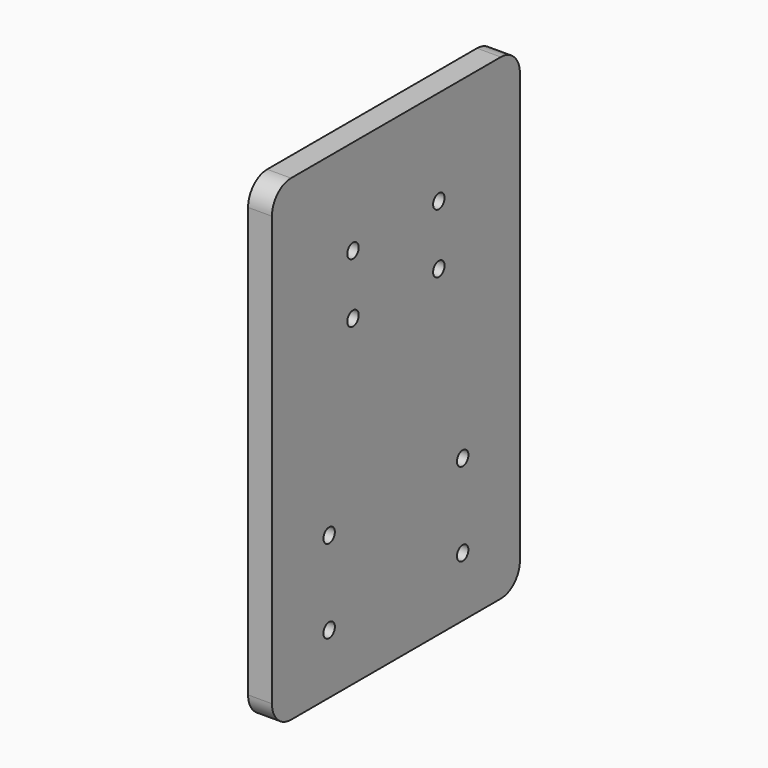
from build123d import *

# Parameters (mm, degrees)
F0_R     = 3
F1_DEPTH = 10


with BuildPart() as f1:
    # F0 (on Right) → F1 (new body)
    with BuildSketch(Plane.YZ):
        with BuildLine():
            Line((55, 100), (-55, 100))
            ThreePointArc((-55, 100), (-62.071068, 97.071068), (-65, 90))
            Line((-65, 90), (-65, -90))
            ThreePointArc((-65, -90), (-62.071068, -97.071068), (-55, -100))
            Line((-55, -100), (55, -100))
            ThreePointArc((55, -100), (62.071068, -97.071068), (65, -90))
            Line((65, -90), (65, 90))
            ThreePointArc((65, 90), (62.071068, 97.071068), (55, 100))
        make_face()
        with Locations((-35, -75)):
            Circle(F0_R, mode=Mode.SUBTRACT)
        with Locations((-35, -40)):
            Circle(F0_R, mode=Mode.SUBTRACT)
        with Locations((35, -75)):
            Circle(F0_R, mode=Mode.SUBTRACT)
        with Locations((35, -40)):
            Circle(F0_R, mode=Mode.SUBTRACT)
        with Locations((-22.5, 35)):
            Circle(F0_R, mode=Mode.SUBTRACT)
        with Locations((-22.5, 60)):
            Circle(F0_R, mode=Mode.SUBTRACT)
        with Locations((22.5, 35)):
            Circle(F0_R, mode=Mode.SUBTRACT)
        with Locations((22.5, 60)):
            Circle(F0_R, mode=Mode.SUBTRACT)
    extrude(amount=F1_DEPTH)


solid = f1.part
